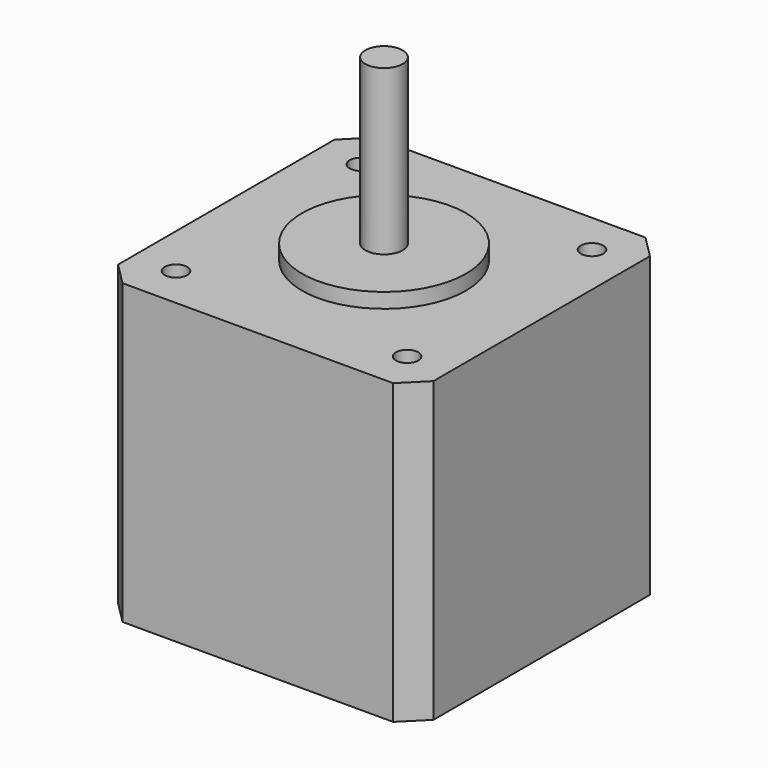
from build123d import *

# Parameters (mm, degrees)
F0_W          = 42.3
F0_H          = 42.3
F0_R          = 1.5
F0_R_2        = 11
F0_R_3        = 2.5
F1_DEPTH      = 40
F2_DEPTH      = 40
F3_DEPTH      = 2
F4_R          = 2.5
F5_DEPTH      = 24
F5_DEPTH_BACK = 40
F6_SIZE       = 3


with BuildPart() as f1:
    # F0 (on Top) → F1 (new body)
    with BuildSketch(Plane.XY):
        Rectangle(F0_W, F0_H)
        with Locations((-15.5, -15.5)):
            Circle(F0_R, mode=Mode.SUBTRACT)
        with Locations((15.5, -15.5)):
            Circle(F0_R, mode=Mode.SUBTRACT)
        with Locations((-15.5, 15.5)):
            Circle(F0_R, mode=Mode.SUBTRACT)
        Circle(F0_R_2, mode=Mode.SUBTRACT)
        with Locations((15.5, 15.5)):
            Circle(F0_R, mode=Mode.SUBTRACT)
        with Locations((-15.5, 15.5)):
            Circle(F0_R)
        with Locations((-15.5, -15.5)):
            Circle(F0_R)
        with Locations((15.5, -15.5)):
            Circle(F0_R)
        Circle(F0_R_2)
        Circle(F0_R_3, mode=Mode.SUBTRACT)
        with Locations((15.5, 15.5)):
            Circle(F0_R)
    extrude(amount=-F1_DEPTH)

    # F0 (on Top) → F2 (cut)
    with BuildSketch(Plane.XY):
        with Locations((-15.5, 15.5)):
            Circle(F0_R)
        with Locations((-15.5, -15.5)):
            Circle(F0_R)
        with Locations((15.5, -15.5)):
            Circle(F0_R)
        with Locations((15.5, 15.5)):
            Circle(F0_R)
    extrude(amount=-F2_DEPTH, mode=Mode.SUBTRACT)

    # F0 (on Top) → F3 (join)
    with BuildSketch(Plane.XY):
        Circle(F0_R_2)
        Circle(F0_R_3, mode=Mode.SUBTRACT)
    extrude(amount=F3_DEPTH)

    # F6
    f6_edges = [f1.edges().sort_by_distance(p)[0] for p in [
        (21.15, -21.15, -20),
        (21.15, 21.15, -20),
        (-21.15, -21.15, -20),
        (-21.15, 21.15, -20),
    ]]
    chamfer(f6_edges, length=F6_SIZE)


with BuildPart() as f5:
    # F4 (on Top) → F5 (new body, two sides)
    with BuildSketch(Plane.XY) as f5_sk:
        Circle(F4_R)
    extrude(amount=F5_DEPTH)
    extrude(f5_sk.sketch, amount=-F5_DEPTH_BACK)


solid = Compound([f1.part, f5.part])
